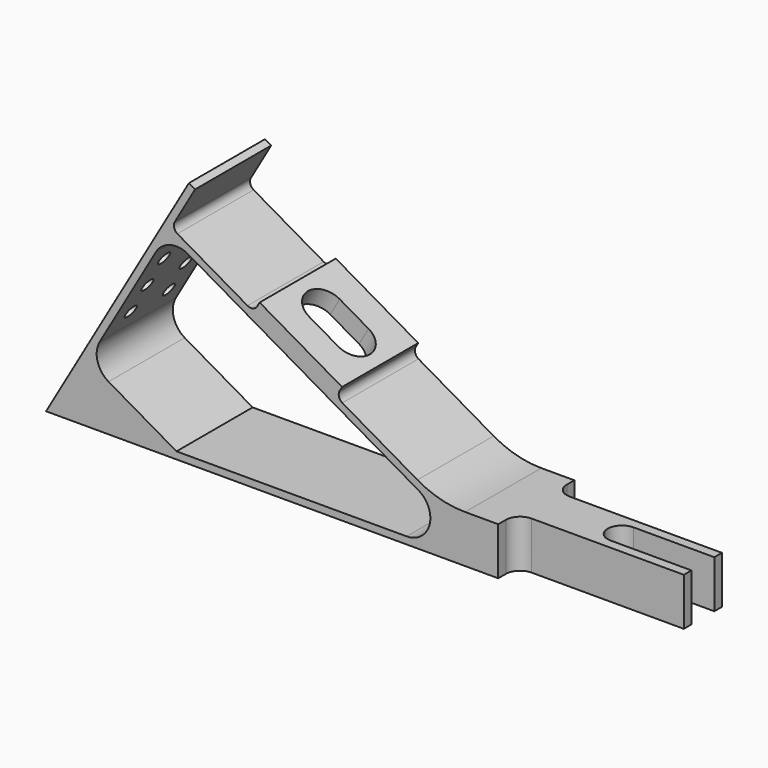
from build123d import *

# Parameters (mm, degrees)
F1_DEPTH  = 10
F3_DEPTH  = 10.001
F5_DEPTH  = 25
F6_R      = 1.395
F7_DEPTH  = 25
F8_R      = 4.25
F9_DEPTH  = 112.584302492
F8_R_2    = 5.6
F10_DEPTH = 1.5


with BuildPart() as f1:
    # F0 (on Front) → F1 (new body, symmetric)
    with BuildSketch(Plane.XZ):
        with BuildLine():
            Line((30, 51.9615242271), (0, 0))
            Line((0, 0), (130, 0))
            Line((130, 0), (130, 10))
            Line((130, 10), (88.0384757729, 10))
            ThreePointArc((88.0384757729, 10), (82.8620948709, 10.6814834742), (78.0384757729, 12.6794919243))
            Line((78.0384757729, 12.6794919243), (62.2390923627, 21.8012701892))
            ThreePointArc((62.2390923627, 21.8012701892), (61.5402036233, 22.7120797272), (61.6900542571, 23.8503082949))
            Line((61.6900542571, 23.8503082949), (62.1900542571, 24.7163336987))
            Line((62.1900542571, 24.7163336987), (44.8695461814, 34.7163336987))
            Line((44.8695461814, 34.7163336987), (44.3695461814, 33.8503082949))
            ThreePointArc((44.3695461814, 33.8503082949), (43.4587366433, 33.1514195555), (42.3205080757, 33.3012701892))
            Line((42.3205080757, 33.3012701892), (27.5980762114, 41.8012701892))
            ThreePointArc((27.5980762114, 41.8012701892), (26.8991874719, 42.7120797272), (27.0490381057, 43.8503082949))
            Line((27.0490381057, 43.8503082949), (31.2990381057, 51.2115242271))
            Line((31.2990381057, 51.2115242271), (30, 51.9615242271))
        make_face()
        with BuildLine():
            Line((27.4019237886, 1.5), (13.1291651246, 9.7403810568))
            ThreePointArc((13.1291651246, 9.7403810568), (10.7995359932, 12.7764128502), (11.2990381057, 16.5705080757))
            Line((11.2990381057, 16.5705080757), (23.0490381057, 36.9221050646))
            ThreePointArc((23.0490381057, 36.9221050646), (26.0850698991, 39.2517341961), (29.8791651246, 38.7522320835))
            Line((29.8791651246, 38.7522320835), (78.2416697508, 10.8301270189))
            ThreePointArc((78.2416697508, 10.8301270189), (80.5712988822, 5.2059047745), (75.7416697508, 1.5))
            Line((75.7416697508, 1.5), (27.4019237886, 1.5))
        make_face(mode=Mode.SUBTRACT)
    extrude(amount=F1_DEPTH, both=True)

    # F2 (on face) → F3 (cut, through all)
    with BuildSketch(Plane.XY.offset(10)):
        with BuildLine():
            Line((130, 3), (113, 3))
            ThreePointArc((113, 3), (110, 0), (113, -3))
            Line((113, -3), (130, -3))
            Line((130, -3), (130, 3))
        make_face()
        with BuildLine():
            Line((98, 5), (130, 5))
            Line((130, 5), (130, 10))
            Line((130, 10), (95, 10))
            Line((95, 10), (95, 8))
            ThreePointArc((95, 8), (95.8786796564, 5.8786796564), (98, 5))
        make_face()
        with BuildLine():
            Line((95, -10), (130, -10))
            Line((130, -10), (130, -5))
            Line((130, -5), (98, -5))
            ThreePointArc((98, -5), (95.8786796564, -5.8786796564), (95, -8))
            Line((95, -8), (95, -10))
        make_face()
    extrude(amount=-F3_DEPTH, mode=Mode.SUBTRACT)

    # F4 (on face) → F5 (cut)
    with BuildSketch(Plane(origin=(30, 0, 51.9615242271), x_dir=(0.8660254038, 0, -0.5), z_dir=(0.5, 0, 0.8660254038))):
        with BuildLine():
            ThreePointArc((28, 4), (24, 0), (28, -4))
            Line((28, -4), (35, -4))
            ThreePointArc((35, -4), (39, 0), (35, 4))
            Line((35, 4), (28, 4))
        make_face()
    extrude(amount=-F5_DEPTH, mode=Mode.SUBTRACT)

    # F6 (on face) → F7 (cut)
    with BuildSketch(Plane(origin=(0, 0, 0), x_dir=(0, -1, 0), z_dir=(-0.8660254038, 0, 0.5))):
        with Locations((-5, 25)):
            Circle(F6_R)
        with Locations((-5, 32)):
            Circle(F6_R)
        with Locations((-5, 39)):
            Circle(F6_R)
        with Locations((5, 25)):
            Circle(F6_R)
        with Locations((5, 32)):
            Circle(F6_R)
        with Locations((5, 39)):
            Circle(F6_R)
    extrude(amount=-F7_DEPTH, mode=Mode.SUBTRACT)

    # F8 (on face) → F9 (cut, through all)
    with BuildSketch(Plane(origin=(0, 0, 0), x_dir=(0, -1, 0), z_dir=(-0.8660254038, 0, 0.5))):
        with Locations((0, 7.5)):
            Circle(F8_R)
    extrude(amount=-F9_DEPTH, mode=Mode.SUBTRACT)

    # F8 (on face) → F10 (cut)
    with BuildSketch(Plane(origin=(0, 0, 0), x_dir=(0, -1, 0), z_dir=(-0.8660254038, 0, 0.5))):
        with Locations((0, 7.5)):
            Circle(F8_R_2)
        with Locations((0, 7.5)):
            Circle(F8_R, mode=Mode.SUBTRACT)
    extrude(amount=-F10_DEPTH, mode=Mode.SUBTRACT)


solid = f1.part
